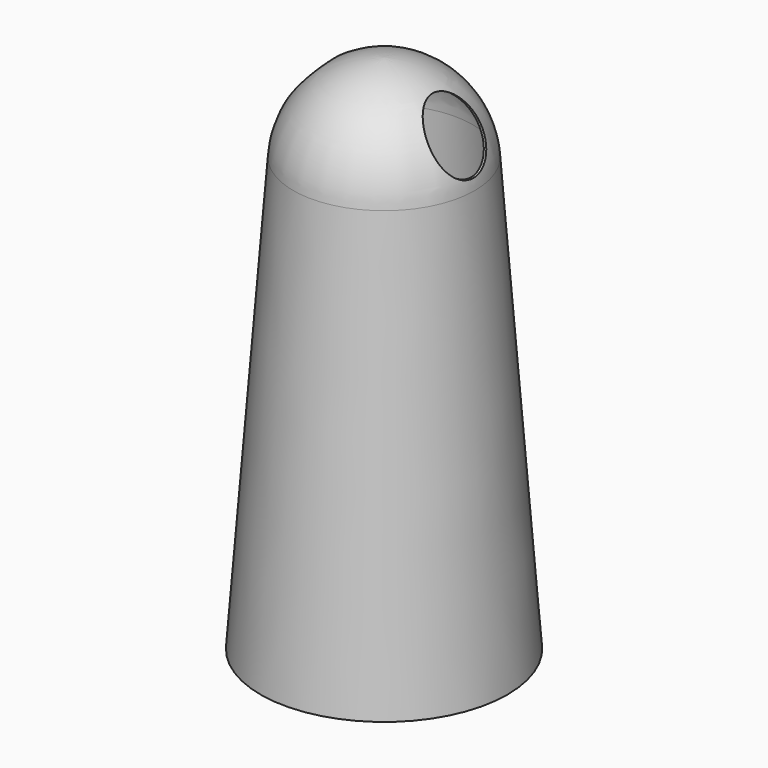
from build123d import *

# Parameters (mm, degrees)
F2_T     = -2
F4_R     = 27.5
F5_DEPTH = 223


with BuildPart() as f1:
    # F0 (on Front) → F1 (revolve)
    with BuildSketch(Plane.XZ):
        Polygon((0, 388.14), (0, 0), (110.7, 0), (81.37, 388.14), align=None)
        with BuildLine():
            Line((0, 466.667629), (0, 388.14))
            Line((0, 388.14), (81.37, 388.14))
            ThreePointArc((81.37, 388.14), (55.637977, 442.898026), (0, 466.667629))
        make_face()
    revolve(axis=Axis((0, 0, 194.07), (0, 0, 1)))

    # F2
    f2_openings = [f1.faces().sort_by_distance(p)[0] for p in [
        (0, 0, 0),
    ]]
    offset(amount=F2_T, openings=f2_openings)

    # F4 (on offset) → F5 (cut)
    with BuildSketch(Plane.YZ.offset(-111)):
        with Locations((0, 425.14)):
            Circle(F4_R)
    extrude(amount=F5_DEPTH, mode=Mode.SUBTRACT)


solid = f1.part
